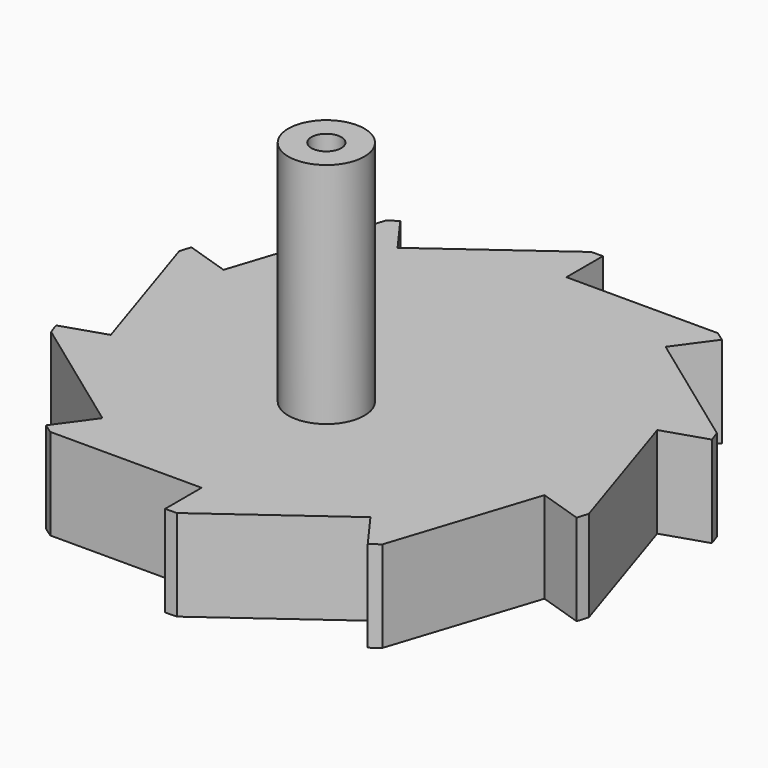
from build123d import *

# Parameters (mm, degrees)
F1_DEPTH = 10
F2_R     = 4.167492
F3_DEPTH = 25
F4_R     = 1.638952
F5_DEPTH = 25
F6_R     = 1.638952
F7_DEPTH = 47.6


with BuildPart() as f1:
    # F0 (on Top) → F1 (new body)
    with BuildSketch(Plane.XY):
        with BuildLine():
            Line((0, 25), (0, 30))
            ThreePointArc((0, 30), (-0.639446, 29.993184), (-1.278602, 29.972741))
            Line((-1.278602, 29.972741), (-14.694631, 20.225425))
            Line((-14.694631, 20.225425), (-17.633558, 24.27051))
            ThreePointArc((-17.633558, 24.27051), (-18.146874, 23.889139), (-18.651946, 23.496913))
            Line((-18.651946, 23.496913), (-23.776413, 7.725425))
            Line((-23.776413, 7.725425), (-28.531695, 9.27051))
            ThreePointArc((-28.531695, 9.27051), (-28.722813, 8.660254), (-28.90088, 8.046063))
            Line((-28.90088, 8.046063), (-23.776413, -7.725425))
            Line((-23.776413, -7.725425), (-28.531695, -9.27051))
            ThreePointArc((-28.531695, -9.27051), (-28.327614, -9.876553), (-28.11066, -10.478109))
            Line((-28.11066, -10.478109), (-14.694631, -20.225425))
            Line((-14.694631, -20.225425), (-17.633558, -24.27051))
            ThreePointArc((-17.633558, -24.27051), (-17.112228, -24.640853), (-16.583124, -25))
            Line((-16.583124, -25), (0, -25))
            Line((0, -25), (0, -30))
            ThreePointArc((0, -30), (0.639446, -29.993184), (1.278602, -29.972741))
            Line((1.278602, -29.972741), (14.694631, -20.225425))
            Line((14.694631, -20.225425), (17.633558, -24.27051))
            ThreePointArc((17.633558, -24.27051), (18.146874, -23.889139), (18.651946, -23.496913))
            Line((18.651946, -23.496913), (23.776413, -7.725425))
            Line((23.776413, -7.725425), (28.531695, -9.27051))
            ThreePointArc((28.531695, -9.27051), (28.722813, -8.660254), (28.90088, -8.046063))
            Line((28.90088, -8.046063), (23.776413, 7.725425))
            Line((23.776413, 7.725425), (28.531695, 9.27051))
            ThreePointArc((28.531695, 9.27051), (28.327614, 9.876553), (28.11066, 10.478109))
            Line((28.11066, 10.478109), (14.694631, 20.225425))
            Line((14.694631, 20.225425), (17.633558, 24.27051))
            ThreePointArc((17.633558, 24.27051), (17.112228, 24.640853), (16.583124, 25))
            Line((16.583124, 25), (0, 25))
        make_face()
    extrude(amount=F1_DEPTH)

    # F2 (on face) → F3 (join)
    with BuildSketch(Plane.XY.offset(10)):
        with Locations((-1.638952, -5.852238)):
            Circle(F2_R)
    extrude(amount=F3_DEPTH)

    # F4 (on face) → F5 (cut)
    with BuildSketch(Plane.XY.offset(10)):
        with Locations((-1.638952, -5.852238)):
            Circle(F4_R)
    extrude(amount=-F5_DEPTH, mode=Mode.SUBTRACT)

    # F6 (on face) → F7 (cut)
    with BuildSketch(Plane.XY.offset(10)):
        with Locations((-1.638952, -5.852238)):
            Circle(F6_R)
    extrude(amount=F7_DEPTH, mode=Mode.SUBTRACT)


solid = f1.part
